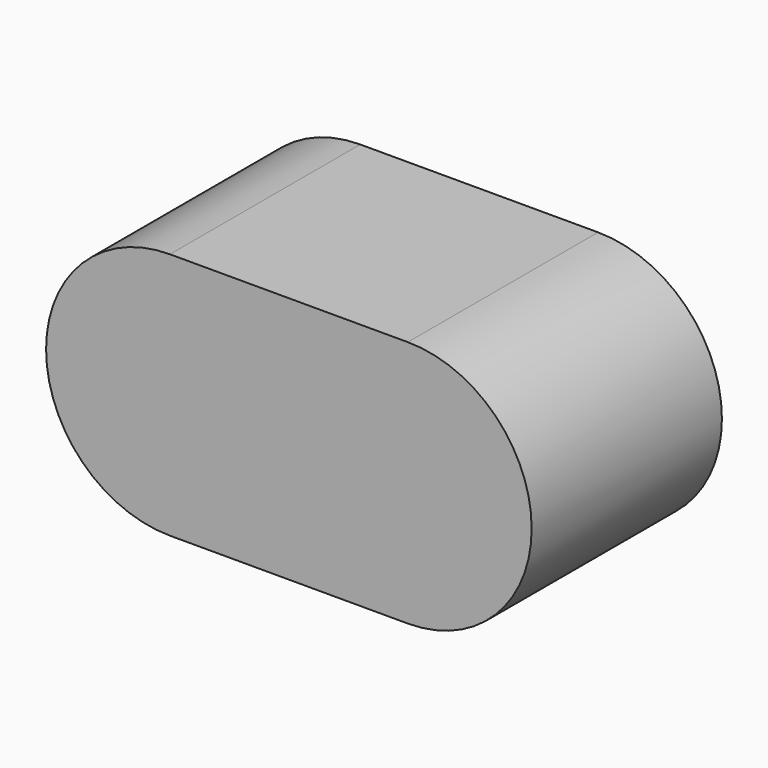
from build123d import *

# Parameters (mm, degrees)
F1_DEPTH = 152.4
F2_DEPTH = 25.4


with BuildPart() as f1:
    # F0 (on Front) → F1 (new body)
    with BuildSketch(Plane.XZ):
        with BuildLine():
            Line((-164.5039917738, -79.375), (-12.1039917738, -79.375))
            ThreePointArc((-12.1039917738, -79.375), (67.2710082262, 0), (-12.1039917738, 79.375))
            Line((-12.1039917738, 79.375), (-164.5039917738, 79.375))
            ThreePointArc((-164.5039917738, 79.375), (-243.8789917738, 0), (-164.5039917738, -79.375))
        make_face()
        with BuildLine():
            ThreePointArc((-12.1039917738, 76.2), (64.0960082262, 0), (-12.1039917738, -76.2))
            Line((-12.1039917738, -76.2), (-164.5039917738, -76.2))
            ThreePointArc((-164.5039917738, -76.2), (-240.7039917738, 0), (-164.5039917738, 76.2))
            Line((-164.5039917738, 76.2), (-12.1039917738, 76.2))
        make_face(mode=Mode.SUBTRACT)
    extrude(amount=-F1_DEPTH)

    # F0 (on Front) → F2 (join)
    with BuildSketch(Plane.XZ):
        with BuildLine():
            Line((-164.5039917738, -76.2), (-12.1039917738, -76.2))
            ThreePointArc((-12.1039917738, -76.2), (64.0960082262, 0), (-12.1039917738, 76.2))
            Line((-12.1039917738, 76.2), (-164.5039917738, 76.2))
            ThreePointArc((-164.5039917738, 76.2), (-240.7039917738, 0), (-164.5039917738, -76.2))
        make_face()
    extrude(amount=-F2_DEPTH)


solid = f1.part
